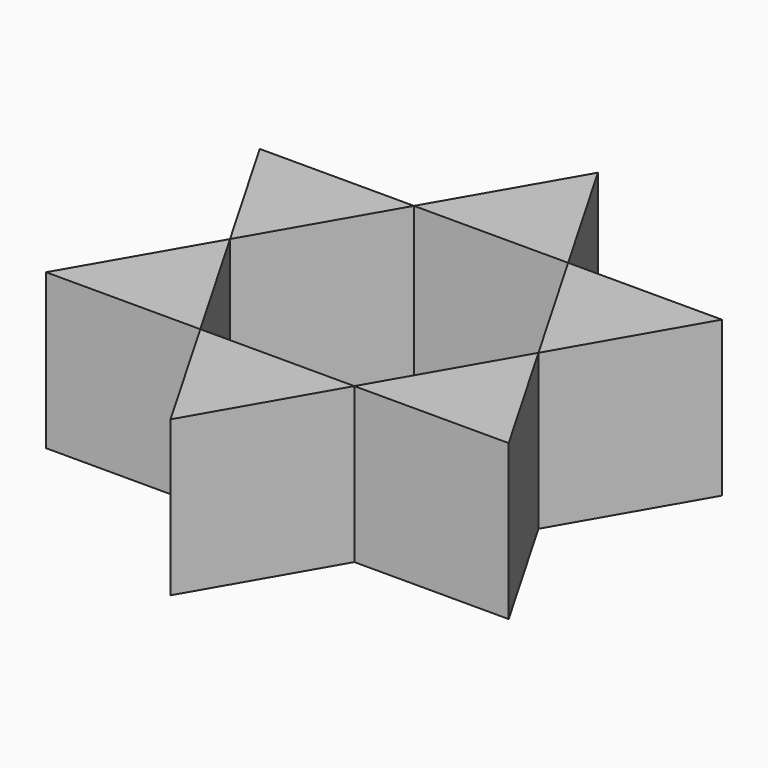
from build123d import *

# Parameters (mm, degrees)
F2_DEPTH = 12.7


with BuildPart() as f2:
    # F1 (on Top) → F2 (new body, symmetric)
    with BuildSketch(Plane.XY):
        Polygon((37.9182917739, -21.8921359628), (25.2565930498, 0.0385695373), (12.6171820573, -21.8921359628), align=None)
    extrude(amount=F2_DEPTH, both=True)


with BuildPart() as f2b:
    # F1 (on Top) → F2, piece 2 (new body, symmetric)
    with BuildSketch(Plane.XY):
        Polygon((37.8515461718, 21.8921359628), (12.6394305913, 21.8921359628), (25.2565930498, 0.0385695373), align=None)
    extrude(amount=F2_DEPTH, both=True)


with BuildPart() as f2c:
    # F1 (on Top) → F2, piece 3 (new body, symmetric)
    with BuildSketch(Plane.XY):
        Polygon((0, 43.7842719257), (-12.6394305913, 21.8921359628), (12.6394305913, 21.8921359628), align=None)
    extrude(amount=F2_DEPTH, both=True)


with BuildPart() as f2d:
    # F1 (on Top) → F2, piece 4 (new body, symmetric)
    with BuildSketch(Plane.XY):
        Polygon((-12.6394305913, 21.8921359628), (-37.9182917739, 21.8921359628), (-25.2788611826, 0), align=None)
    extrude(amount=F2_DEPTH, both=True)


with BuildPart() as f2e:
    # F1 (on Top) → F2, piece 5 (new body, symmetric)
    with BuildSketch(Plane.XY):
        Polygon((-12.6394305913, -21.8921359628), (-25.2788611826, 0), (-37.9182917739, -21.8921359628), align=None)
    extrude(amount=F2_DEPTH, both=True)


with BuildPart() as f2f:
    # F1 (on Top) → F2, piece 6 (new body, symmetric)
    with BuildSketch(Plane.XY):
        Polygon((12.6171820573, -21.8921359628), (-12.6394305913, -21.8921359628), (0, -43.7842719257), align=None)
    extrude(amount=F2_DEPTH, both=True)


solid = Compound([f2.part, f2b.part, f2c.part, f2d.part, f2e.part, f2f.part])
